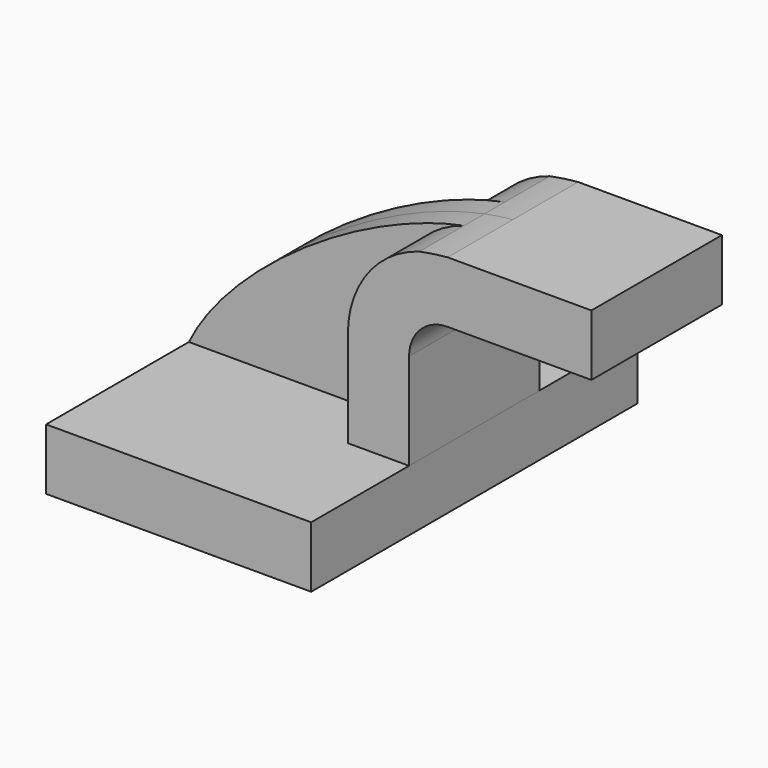
from build123d import *

# Parameters (mm, degrees)
F1_DEPTH = 63.5
F0_W     = 25.4
F0_H     = 15.5858107232
F2_DEPTH = 25.4
F3_DEPTH = 7.9375
F4_DEPTH = 63.5


with BuildPart() as f1:
    # F0 (on Front) → F1 (new body, symmetric)
    with BuildSketch(Plane.XZ):
        Polygon((22.225, 9.525), (-41.275, 9.525), (-41.275, -9.525), (41.275, -9.525), (41.275, 9.525), align=None)
    extrude(amount=F1_DEPTH, both=True)

    # F0 (on Front) → F2 (join, symmetric)
    with BuildSketch(Plane.XZ):
        with BuildLine():
            Line((22.225, 39.5245600989), (22.225, 9.525))
            Line((22.225, 9.525), (41.275, 9.525))
            Line((41.275, 9.525), (41.275, 39.5245600989))
            ThreePointArc((41.275, 39.5245600989), (44.7904831194, 48.0116871241), (53.2776101446, 51.5271702435))
            Line((53.2776101446, 51.5271702435), (72.6495390284, 51.5271702435))
            Line((72.6495390284, 51.5271702435), (72.6495390284, 67.1129809667))
            Line((72.6495390284, 67.1129809667), (98.0495390284, 67.1129809667))
            Line((98.0495390284, 67.1129809667), (98.0495390284, 70.5771702435))
            Line((98.0495390284, 70.5771702435), (53.2776101446, 70.5771702435))
            add(Edge.make_bspline(
                [(44.4526718626, 69.2967797191), (47.4549361429, 69.89917945), (50.4048214922, 70.3316993525), (53.2776101446, 70.5771702435)],
                knots=[103.2938203641, 103.2938203641, 103.2938203641, 103.2938203641, 112.5502713306, 112.5502713306, 112.5502713306, 112.5502713306], degree=3))
            ThreePointArc((44.4526718626, 69.2967797191), (28.3948654727, 58.1017938646), (22.225, 39.5245600989))
        make_face()
        with Locations((85.3495390284, 59.3200756051)):
            Rectangle(F0_W, F0_H)
    extrude(amount=F2_DEPTH, both=True)

    # F0 (on Front) → F3 (join, symmetric)
    with BuildSketch(Plane.XZ):
        with BuildLine():
            add(Edge.make_bspline(
                [(-41.275, 9.525), (-29.0750987813, 34.6978438108), (10.9500531616, 62.5745305742), (44.4526718626, 69.2967797191)],
                knots=[0, 0, 0, 0, 103.2938203641, 103.2938203641, 103.2938203641, 103.2938203641], degree=3))
            Line((-41.275, 9.525), (22.225, 9.525))
            Line((22.225, 9.525), (22.225, 39.5245600989))
            ThreePointArc((22.225, 39.5245600989), (28.3948654727, 58.1017938646), (44.4526718626, 69.2967797191))
        make_face()
    extrude(amount=F3_DEPTH, both=True)


with BuildPart() as f4:
    # F0 (on Front) → F4 (new body, symmetric)
    with BuildSketch(Plane.XZ):
        Polygon((22.225, 9.525), (-41.275, 9.525), (-41.275, -9.525), (41.275, -9.525), (41.275, 9.525), align=None)
    extrude(amount=F4_DEPTH, both=True)


solid = Compound([f1.part, f4.part])
